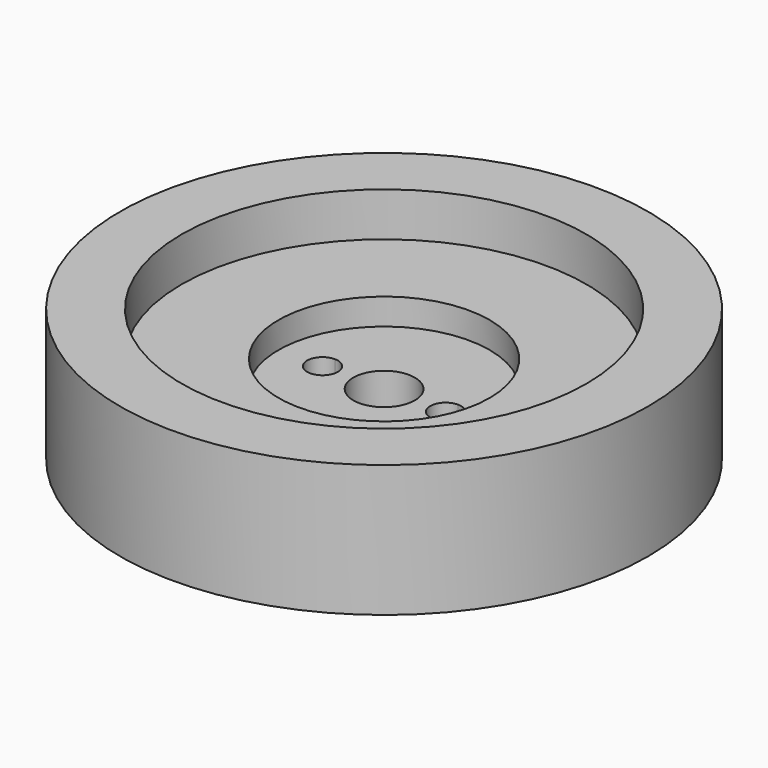
from build123d import *

# Parameters (mm, degrees)
F0_R     = 30
F1_DEPTH = 15
F3_DEPTH = 25
F4_R     = 23
F5_DEPTH = 5
F6_R     = 12
F7_DEPTH = 3
F8_R     = 3.5
F9_DEPTH = 25


with BuildPart() as f1:
    # F0 (on Top) → F1 (new body)
    with BuildSketch(Plane.XY):
        Circle(F0_R)
    extrude(amount=F1_DEPTH)

    # F2 (on face) → F3 (cut)
    with BuildSketch(Plane.XY.offset(15)):
        with BuildLine():
            ThreePointArc((-5.25, 0), (-5.7625631329, 1.2374368671), (-7, 1.75))
            Line((-7, 1.75), (-7, -1.75))
            ThreePointArc((-7, -1.75), (-5.7625631329, -1.2374368671), (-5.25, 0))
        make_face()
        with BuildLine():
            Line((-7, -1.75), (-7, 1.75))
            ThreePointArc((-7, 1.75), (-8.75, 0), (-7, -1.75))
        make_face()
        with BuildLine():
            Line((7, -1.75), (7, 1.75))
            ThreePointArc((7, 1.75), (5.25, 0), (7, -1.75))
        make_face()
        with BuildLine():
            ThreePointArc((8.75, 0), (8.2374368671, 1.2374368671), (7, 1.75))
            Line((7, 1.75), (7, -1.75))
            ThreePointArc((7, -1.75), (8.2374368671, -1.2374368671), (8.75, 0))
        make_face()
    extrude(amount=-F3_DEPTH, mode=Mode.SUBTRACT)

    # F4 (on face) → F5 (cut)
    with BuildSketch(Plane.XY.offset(15)):
        Circle(F4_R)
    extrude(amount=-F5_DEPTH, mode=Mode.SUBTRACT)

    # F6 (on face) → F7 (cut)
    with BuildSketch(Plane.XY.offset(10)):
        Circle(F6_R)
    extrude(amount=-F7_DEPTH, mode=Mode.SUBTRACT)

    # F8 (on face) → F9 (cut)
    with BuildSketch(Plane(origin=(0, 0, 0), x_dir=(1, 0, 0), z_dir=(0, 0, -1))):
        Circle(F8_R)
    extrude(amount=-F9_DEPTH, mode=Mode.SUBTRACT)


solid = f1.part
